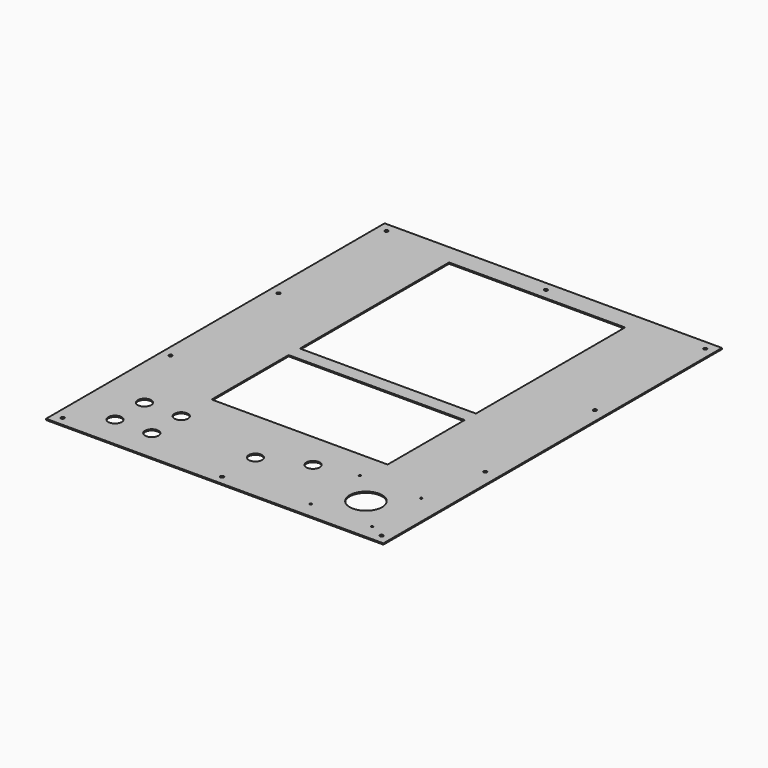
from build123d import *

# Parameters (mm, degrees)
F0_W     = 550
F0_H     = 690
F0_W_2   = 287
F0_H_2   = 157
F0_H_3   = 304
F1_DEPTH = 2
F2_R     = 26.5
F3_DEPTH = 2.001
F5_D     = 3.3
F7_D     = 22
F10_D    = 5.5


with BuildPart() as f1:
    # F0 (on Top) → F1 (new body)
    with BuildSketch(Plane.XY):
        Rectangle(F0_W, F0_H)
        with Locations((0, -93.5)):
            Rectangle(F0_W_2, F0_H_2, mode=Mode.SUBTRACT)
        with Locations((0, 160)):
            Rectangle(F0_W_2, F0_H_3, mode=Mode.SUBTRACT)
    extrude(amount=F1_DEPTH)

    # F2 (on face) → F3 (cut, through all)
    with BuildSketch(Plane.XY.offset(2)):
        with Locations((185, -268)):
            Circle(F2_R)
    extrude(amount=-F3_DEPTH, mode=Mode.SUBTRACT)

    # F5 (through all)
    with Locations(Plane.XY.offset(2)):
        with Locations((135, -218), (235, -218), (235, -318), (135, -318)):
            Hole(F5_D / 2)

    # F7 (through all)
    with Locations(Plane.XY.offset(2)):
        with Locations((-205, -232), (-145, -232), (0, -262), (70, -232), (-205, -292), (-145, -292)):
            Hole(F7_D / 2)

    # F10 (through all)
    with Locations(Plane.XY.offset(2)):
        with Locations((-260, 330), (0, 330), (260, 330), (255.986392498, 110), (252.8937458992, -110), (260, -330), (0, -330), (-260, -330), (-260, -110), (-260, 110)):
            Hole(F10_D / 2)


solid = f1.part
